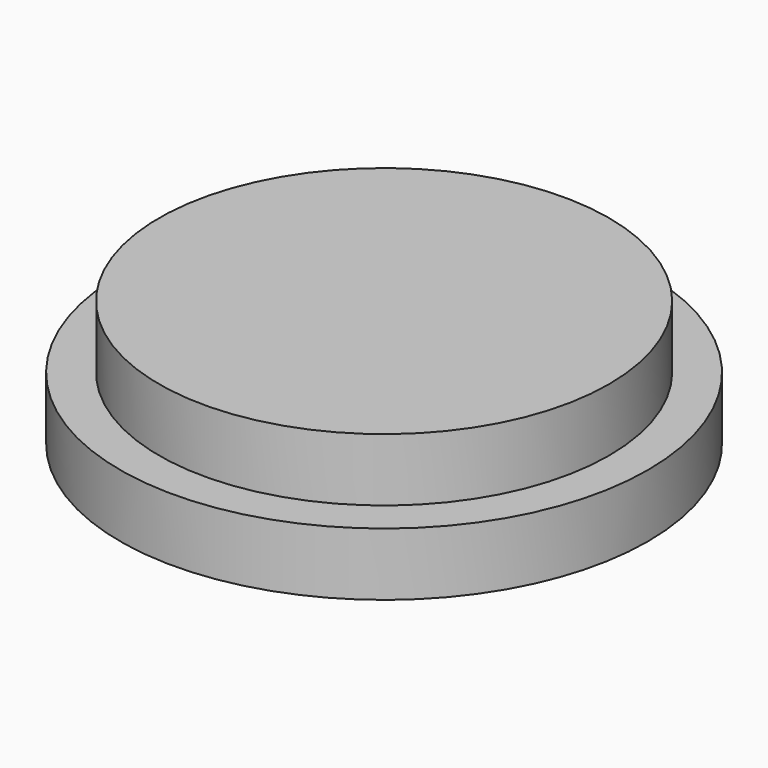
from build123d import *

# Parameters (mm, degrees)
F0_R       = 21
F0_R_2     = 17.9
F1_DEPTH   = 5
F2_R       = 17.9
F3_DEPTH   = 5
F6_R       = 10
F7_DEPTH   = 25
F4_R       = 20
F7_FACE_R  = 10
F7_FACE1_R = 10


with BuildPart() as f1:
    # F0 (on Top) → F1 (new body)
    with BuildSketch(Plane.XY):
        Circle(F0_R)
        Circle(F0_R_2, mode=Mode.SUBTRACT)
        Circle(F0_R_2)
    extrude(amount=F1_DEPTH)

    # F2 (on face) → F3 (join)
    with BuildSketch(Plane.XY.offset(5)):
        Circle(F2_R)
    extrude(amount=F3_DEPTH)


with BuildPart() as f7:
    # F6 (on offset) → F7 (new body)
    with BuildSketch(Plane(origin=(0, 0, -25), x_dir=(1, 0, 0), z_dir=(0, 0, -1))):
        Circle(F6_R)
    extrude(amount=F7_DEPTH)

    # F10: sweep along a path in F9
    with BuildLine(Plane.XZ) as f10_path:
        Line((0, -50), (0, -58.9215382934))
        add(Plane.XZ * Edge.make_bspline(
            [(0, -58.9215382934), (0.244972108, -61.8164338234), (0.7711153536, -68.033997701), (-4.6363235106, -79.4328354028), (-19.6589254166, -90.9882543348), (-29.0378853679, -98.2025712729)],
            knots=[0, 0, 0, 0, 0.2465968941, 0.529632909, 1, 1, 1, 1], degree=3))
    # F7_face1 (on face) → F10 (sweep)
    with BuildSketch(Plane(origin=(0, 0, -50), x_dir=(1, 0, 0), z_dir=(0, 0, -1))):
        Circle(F7_FACE1_R)
    sweep(path=f10_path.line, transition=Transition.RIGHT)


with BuildPart() as f8:
    # F4 (on face) → F8 section 0
    with BuildSketch(Plane(origin=(0, 0, 0), x_dir=(1, 0, 0), z_dir=(0, 0, -1))):
        Circle(F4_R)
    # F7_face (on face) → F8 section 1
    with BuildSketch(Plane.XY.offset(-25)):
        Circle(F7_FACE_R)
    loft()


solid = f1.part
